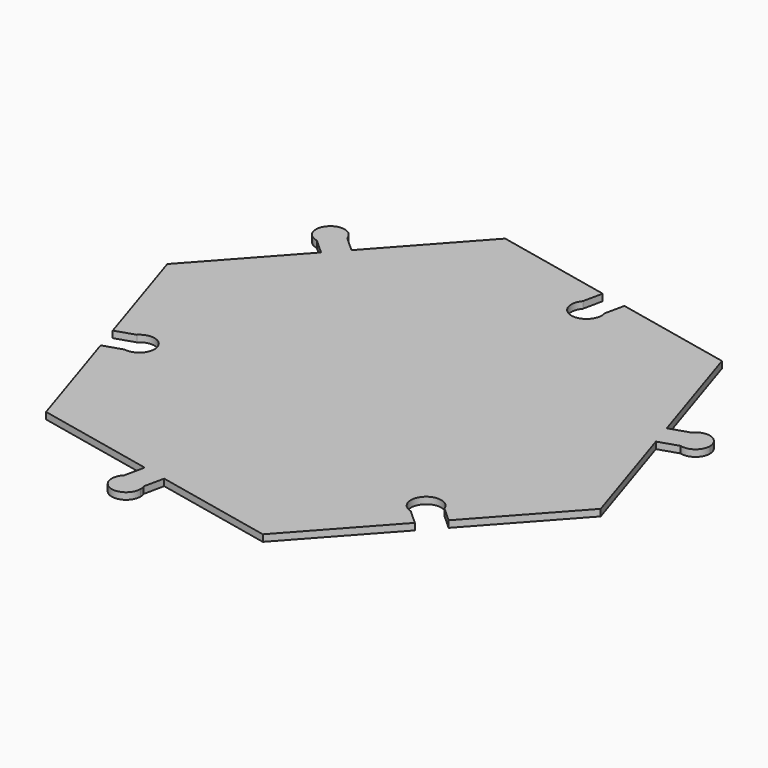
from build123d import *

# Parameters (mm, degrees)
F1_DEPTH = 1


with BuildPart() as f1:
    # F0 (on Top) → F1 (new body)
    with BuildSketch(Plane.XY):
        with BuildLine():
            Line((58.383235, -101.68299), (70.444852, -88.32195))
            Line((70.444852, -88.32195), (64.843104, -71.005472))
            Line((64.843104, -71.005472), (63.735066, -67.580235))
            Line((63.735066, -67.580235), (58.133317, -50.263756))
            Line((58.133317, -50.263756), (40.531509, -46.498609))
            Line((40.531509, -46.498609), (39.903984, -49.432244))
            ThreePointArc((39.903984, -49.432244), (37.247557, -52.289482), (35.992471, -48.595544))
            Line((35.992471, -48.595544), (36.619996, -45.661909))
            Line((36.619996, -45.661909), (19.018187, -41.896762))
            Line((19.018187, -41.896762), (6.822551, -55.406257))
            Line((6.822551, -55.406257), (4.410228, -58.078465))
            Line((4.410228, -58.078465), (-7.785408, -71.587961))
            Line((-7.785408, -71.587961), (-2.245217, -88.714148))
            Line((-2.245217, -88.714148), (0.609147, -87.790783))
            ThreePointArc((0.609147, -87.790783), (4.411802, -88.662697), (1.840301, -91.596602))
            Line((1.840301, -91.596602), (-1.014064, -92.519967))
            Line((-1.014064, -92.519967), (4.526127, -109.646154))
            Line((4.526127, -109.646154), (22.323511, -113.453137))
            Line((22.323511, -113.453137), (25.843873, -114.206166))
            Line((25.843873, -114.206166), (43.641257, -118.013149))
            Line((43.641257, -118.013149), (55.702875, -104.65211))
            Line((55.702875, -104.65211), (53.476035, -102.64184))
            ThreePointArc((53.476035, -102.64184), (52.329808, -98.912687), (56.156395, -99.67272))
            Line((56.156395, -99.67272), (58.383235, -101.68299))
        make_face()
        with BuildLine():
            Line((4.410228, -58.078465), (6.822551, -55.406257))
            Line((6.822551, -55.406257), (4.521484, -53.328979))
            ThreePointArc((4.521484, -53.328979), (4.57471, -53.600792), (4.592551, -53.877193))
            ThreePointArc((4.592551, -53.877193), (3.839997, -55.511097), (2.10916, -56.001187))
            Line((2.10916, -56.001187), (4.410228, -58.078465))
        make_face()
        with BuildLine():
            ThreePointArc((4.592551, -53.877193), (4.57471, -53.600792), (4.521484, -53.328979))
            ThreePointArc((4.521484, -53.328979), (0.846649, -52.436499), (2.10916, -56.001187))
            ThreePointArc((2.10916, -56.001187), (3.839997, -55.511097), (4.592551, -53.877193))
        make_face()
        with BuildLine():
            ThreePointArc((66.684576, -66.626091), (66.311685, -68.638558), (67.792614, -70.051328))
            ThreePointArc((67.792614, -70.051328), (69.662763, -69.685116), (70.507313, -67.976813))
            ThreePointArc((70.507313, -67.976813), (69.073593, -65.949636), (66.684576, -66.626091))
        make_face()
        with BuildLine():
            Line((63.735066, -67.580235), (64.843104, -71.005472))
            Line((64.843104, -71.005472), (67.792614, -70.051328))
            ThreePointArc((67.792614, -70.051328), (66.311685, -68.638558), (66.684576, -66.626091))
            Line((66.684576, -66.626091), (63.735066, -67.580235))
        make_face()
        with BuildLine():
            Line((25.195431, -117.237589), (25.843873, -114.206166))
            Line((25.843873, -114.206166), (22.323511, -113.453137))
            Line((22.323511, -113.453137), (21.675069, -116.48456))
            ThreePointArc((21.675069, -116.48456), (23.639029, -115.908423), (25.195431, -117.237589))
        make_face()
        with BuildLine():
            ThreePointArc((25.339303, -118.010861), (25.303029, -117.61759), (25.195431, -117.237589))
            ThreePointArc((25.195431, -117.237589), (23.639029, -115.908423), (21.675069, -116.48456))
            ThreePointArc((21.675069, -116.48456), (22.362593, -119.995565), (25.339303, -118.010861))
        make_face()
    extrude(amount=F1_DEPTH)


solid = f1.part
